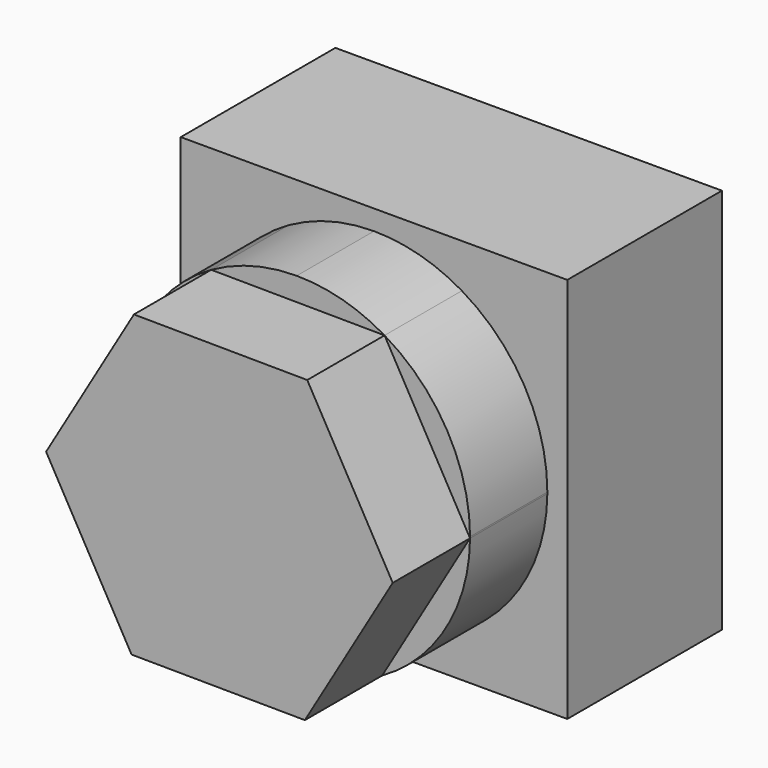
from build123d import *

# Parameters (mm, degrees)
F1_DEPTH = 25.4
F2_DEPTH = 50.8
F3_DEPTH = 38.1


with BuildPart() as f1:
    # F0 (on Front) → F1 (new body)
    with BuildSketch(Plane.XZ):
        with BuildLine():
            Line((14.291638, 21.669561), (-11.108362, 21.669561))
            Line((-11.108362, 21.669561), (-11.108362, 19.048217))
            ThreePointArc((-11.108362, 19.048217), (-5.126345, 18.248703), (0.435743, 15.906283))
            ThreePointArc((0.435743, 15.906283), (8.663163, 7.581236), (11.670295, -3.730439))
            Line((11.670295, -3.730439), (14.291638, -3.730439))
            Line((14.291638, -3.730439), (14.291638, 21.669561))
        make_face()
        with BuildLine():
            Line((-11.108362, 21.669561), (-36.508362, 21.669561))
            Line((-36.508362, 21.669561), (-36.508362, -3.730439))
            Line((-36.508362, -3.730439), (-33.887018, -3.730439))
            ThreePointArc((-33.887018, -3.730439), (-33.886842, -3.640875), (-33.886314, -3.551312))
            ThreePointArc((-33.886314, -3.551312), (-30.745084, 7.813666), (-22.342209, 16.08541))
            ThreePointArc((-22.342209, 16.08541), (-16.917354, 18.295064), (-11.108362, 19.048217))
            Line((-11.108362, 19.048217), (-11.108362, 21.669561))
        make_face()
        with BuildLine():
            Line((-33.887018, -3.730439), (-36.508362, -3.730439))
            Line((-36.508362, -3.730439), (-36.508362, -29.130439))
            Line((-36.508362, -29.130439), (-11.108362, -29.130439))
            Line((-11.108362, -29.130439), (-11.108362, -26.509096))
            ThreePointArc((-11.108362, -26.509096), (-17.090379, -25.709581), (-22.652467, -23.367161))
            ThreePointArc((-22.652467, -23.367161), (-30.879887, -15.042114), (-33.887018, -3.730439))
        make_face()
        with BuildLine():
            Line((14.291638, -29.130439), (14.291638, -3.730439))
            Line((14.291638, -3.730439), (11.670295, -3.730439))
            ThreePointArc((11.670295, -3.730439), (11.670119, -3.820003), (11.66959, -3.909566))
            ThreePointArc((11.66959, -3.909566), (8.52836, -15.274544), (0.125486, -23.546288))
            ThreePointArc((0.125486, -23.546288), (-5.29937, -25.755943), (-11.108362, -26.509096))
            Line((-11.108362, -26.509096), (-11.108362, -29.130439))
            Line((-11.108362, -29.130439), (14.291638, -29.130439))
        make_face()
    extrude(amount=F1_DEPTH)

    # F0 (on Front) → F2 (join)
    with BuildSketch(Plane.XZ):
        Polygon((11.66959, -3.909566), (0.435743, 15.906283), (-22.342209, 16.08541), (-33.886314, -3.551312), (-22.652467, -23.367161), (0.125486, -23.546288), align=None)
    extrude(amount=F2_DEPTH)


with BuildPart() as f3:
    # F0 (on Front) → F3 (new body)
    with BuildSketch(Plane.XZ):
        with BuildLine():
            Line((-33.886314, -3.551312), (-22.342209, 16.08541))
            ThreePointArc((-22.342209, 16.08541), (-30.745084, 7.813666), (-33.886314, -3.551312))
        make_face()
        with BuildLine():
            ThreePointArc((11.670295, -3.730439), (8.663163, 7.581236), (0.435743, 15.906283))
            Line((0.435743, 15.906283), (11.66959, -3.909566))
            ThreePointArc((11.66959, -3.909566), (11.670119, -3.820003), (11.670295, -3.730439))
        make_face()
        with BuildLine():
            ThreePointArc((0.435743, 15.906283), (-5.126345, 18.248703), (-11.108362, 19.048217))
            ThreePointArc((-11.108362, 19.048217), (-16.917354, 18.295064), (-22.342209, 16.08541))
            Line((-22.342209, 16.08541), (0.435743, 15.906283))
        make_face()
        with BuildLine():
            ThreePointArc((-33.886314, -3.551312), (-33.886842, -3.640875), (-33.887018, -3.730439))
            ThreePointArc((-33.887018, -3.730439), (-30.879887, -15.042114), (-22.652467, -23.367161))
            Line((-22.652467, -23.367161), (-33.886314, -3.551312))
        make_face()
        with BuildLine():
            Line((0.125486, -23.546288), (-22.652467, -23.367161))
            ThreePointArc((-22.652467, -23.367161), (-17.090379, -25.709581), (-11.108362, -26.509096))
            ThreePointArc((-11.108362, -26.509096), (-5.29937, -25.755943), (0.125486, -23.546288))
        make_face()
        with BuildLine():
            ThreePointArc((0.125486, -23.546288), (8.52836, -15.274544), (11.66959, -3.909566))
            Line((11.66959, -3.909566), (0.125486, -23.546288))
        make_face()
    extrude(amount=F3_DEPTH)


solid = Compound([f1.part, f3.part])
